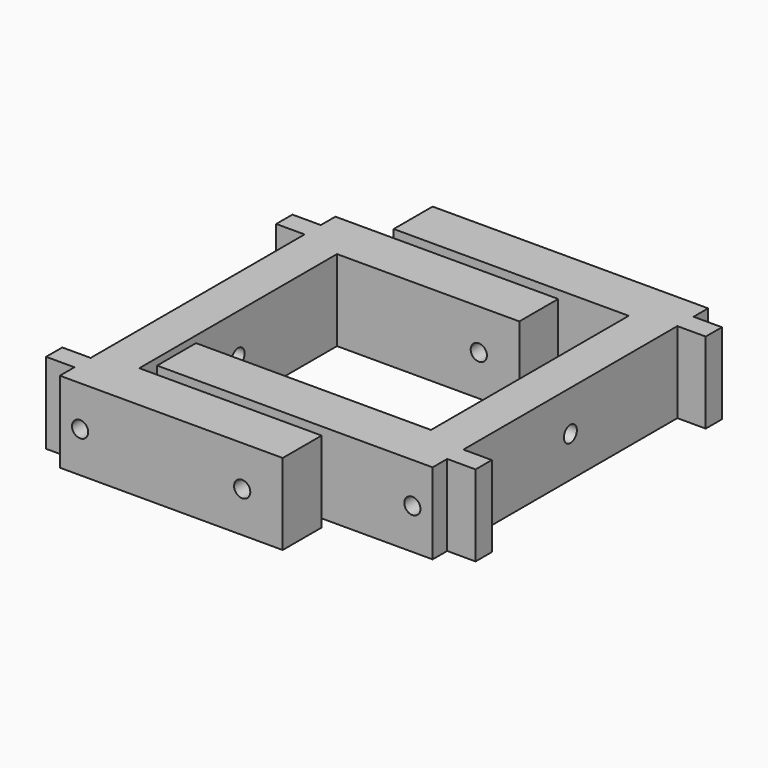
from build123d import *

# Parameters (mm, degrees)
PAD_DEPTH       = 20
SKETCH004_R     = 2
POCKET002_DEPTH = 55.001
SKETCH005_R     = 2
POCKET003_DEPTH = 85.001
PAD001_DEPTH    = 20
SKETCH007_R     = 2
POCKET004_DEPTH = 68.001
SKETCH008_R     = 2
POCKET005_DEPTH = 85.001


with BuildPart() as soporte_agujero_superior_lateral:
    # Sketch → Pad (new body)
    with BuildSketch(Plane.XY):
        Polygon((-10, -42.5), (45, -42.5), (45, -30.5), (0, -30.5), (0, 30.5), (45, 30.5), (45, 42.5), (-10, 42.5), (-10, 38), (-17, 38), (-17, 33), (-10, 33), (-10, -33), (-17, -33), (-17, -38), (-10, -38), align=None)
    extrude(amount=PAD_DEPTH)

    # Sketch004 → Pocket002 (cut, through all)
    with BuildSketch(Plane(origin=(-10, 0, 0), x_dir=(0, -1, 0), z_dir=(-1, 0, 0))):
        with Locations((0, 10)):
            Circle(SKETCH004_R)
    extrude(amount=-POCKET002_DEPTH, mode=Mode.SUBTRACT)

    # Sketch005 → Pocket003 (cut, through all)
    with BuildSketch(Plane.XZ.offset(42.5)):
        with Locations((-5, 10)):
            Circle(SKETCH005_R)
        with Locations((35, 10)):
            Circle(SKETCH005_R)
    extrude(amount=-POCKET003_DEPTH, mode=Mode.SUBTRACT)


with BuildPart() as soporte_agujero_superior_lateral001:
    # Sketch006 → Pad001 (new body)
    with BuildSketch(Plane(origin=(60, 15, 0), x_dir=(-1, 0, 0), z_dir=(0, 0, 1))):
        Polygon((-10, -42.5), (58, -42.5), (58, -30.5), (0, -30.5), (0, 30.5), (58, 30.5), (58, 42.5), (-10, 42.5), (-10, 38), (-17, 38), (-17, 33), (-10, 33), (-10, -33), (-17, -33), (-17, -38), (-10, -38), align=None)
    extrude(amount=PAD001_DEPTH)

    # Sketch007 → Pocket004 (cut, through all)
    with BuildSketch(Plane(origin=(70, 15, 0), x_dir=(0, 1, 0), z_dir=(1, 0, 0))):
        with Locations((0, 10)):
            Circle(SKETCH007_R)
    extrude(amount=-POCKET004_DEPTH, mode=Mode.SUBTRACT)

    # Sketch008 → Pocket005 (cut, through all)
    with BuildSketch(Plane(origin=(60, 57.5, 0), x_dir=(-1, 0, 0), z_dir=(0, 1, 0))):
        with Locations((-5, 10)):
            Circle(SKETCH008_R)
        with Locations((48, 10)):
            Circle(SKETCH008_R)
    extrude(amount=-POCKET005_DEPTH, mode=Mode.SUBTRACT)


solid = Compound([soporte_agujero_superior_lateral.part, soporte_agujero_superior_lateral001.part])
